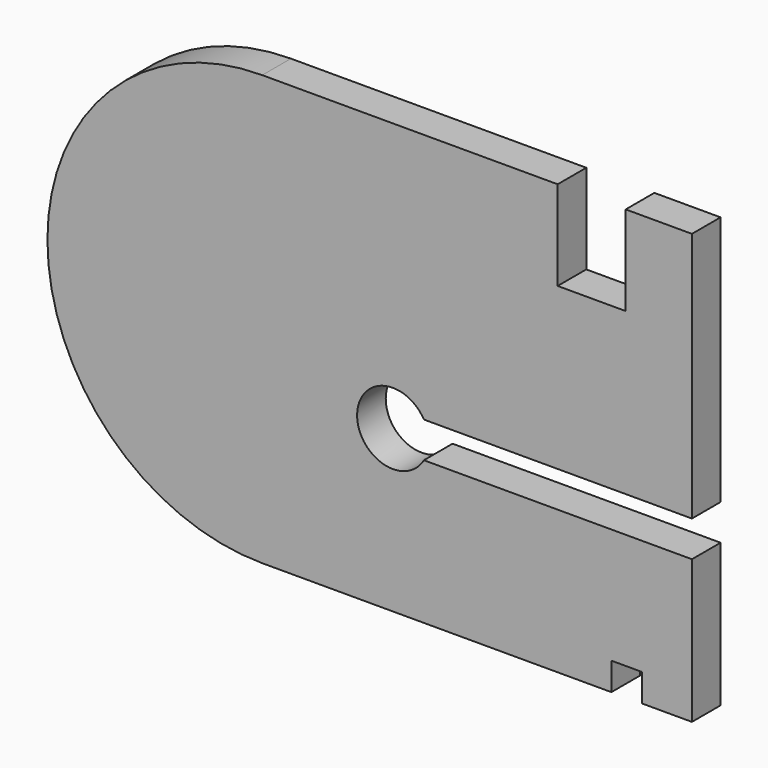
from build123d import *

# Parameters (mm, degrees)
PAD_DEPTH = 1


with BuildPart() as part:
    # Sketch → Pad (new body, symmetric)
    with BuildSketch(Plane.XZ):
        with BuildLine():
            Line((-15, -12), (4.5, -12))
            Line((4.5, -10.45), (4.5, -12))
            Line((6.2, -10.45), (4.5, -10.45))
            Line((6.2, -12), (6.2, -10.45))
            Line((6.2, -12), (9, -12))
            Line((9, -12), (9, -4))
            Line((-5.9714, -4), (9, -4))
            ThreePointArc((-5.9714, -2), (-9.70345, -3), (-5.9714, -4))
            Line((9, -2), (-5.9714, -2))
            Line((9, 12), (9, -2))
            Line((9, 12), (5.3, 12))
            Line((5.3, 7), (5.3, 12))
            Line((1.5, 7), (5.3, 7))
            Line((1.5, 12), (1.5, 7))
            Line((1.5, 12), (-15, 12))
            ThreePointArc((-15, 12), (-27, 0), (-15, -12))
        make_face()
    extrude(amount=PAD_DEPTH, both=True)


solid = part.part
